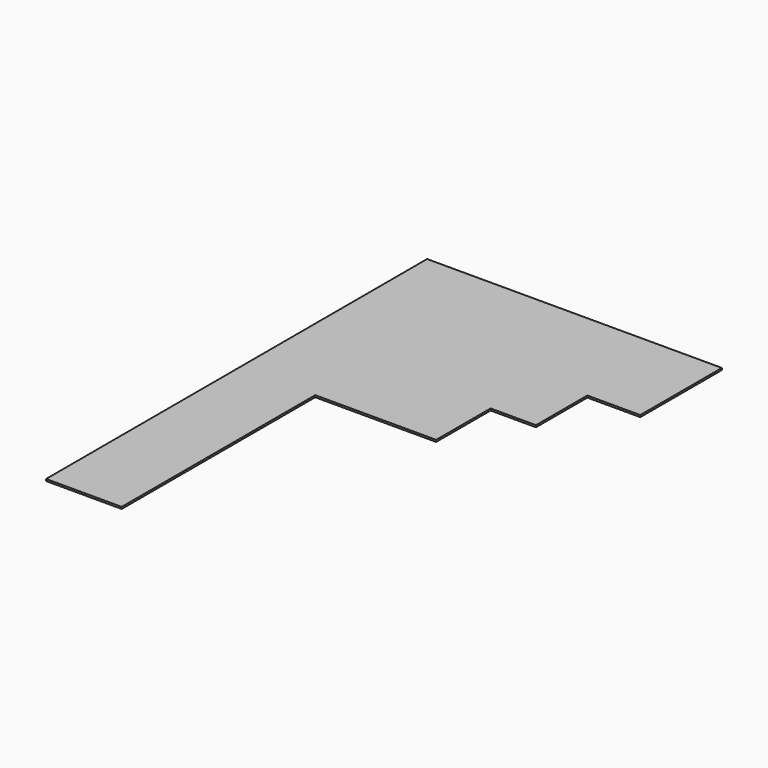
from build123d import *

# Parameters (mm, degrees)
F1_DEPTH = 25.4


with BuildPart() as f1:
    # F0 (on Top) → F1 (new body)
    with BuildSketch(Plane.XY):
        Polygon((0, 6400.8), (0, 0), (1016, 0), (1016, 3251.2), (2641.6, 3251.2), (2641.6, 4165.6), (3251.2, 4165.6), (3251.2, 5029.2), (3962.4, 5029.2), (3962.4, 6400.8), align=None)
    extrude(amount=-F1_DEPTH)


solid = f1.part
